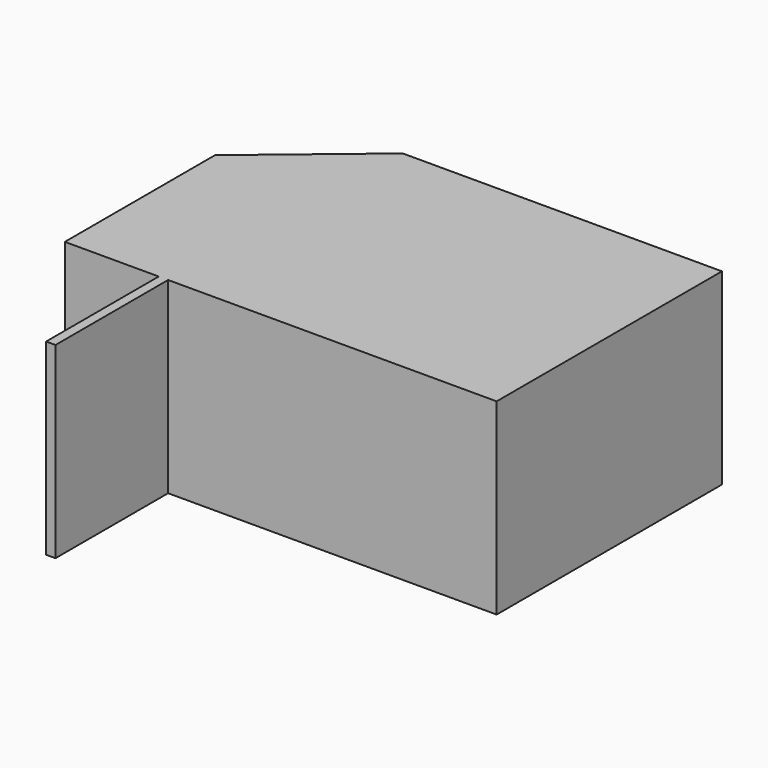
from build123d import *

# Parameters (mm, degrees)
F0_W     = 1
F0_H     = 15
F1_DEPTH = 20


with BuildPart() as f1:
    # F0 (on Top) → F1 (new body)
    with BuildSketch(Plane.XY):
        Polygon((31.285321, 24.755745), (-2.714679, 24.755745), (-14.714679, 14.755745), (-14.714679, -5.244255), (-4.714679, -5.244255), (-3.714679, -5.244255), (31.285321, -5.244255), align=None)
        with Locations((-4.214679, -12.744255)):
            Rectangle(F0_W, F0_H)
    extrude(amount=F1_DEPTH)


solid = f1.part
